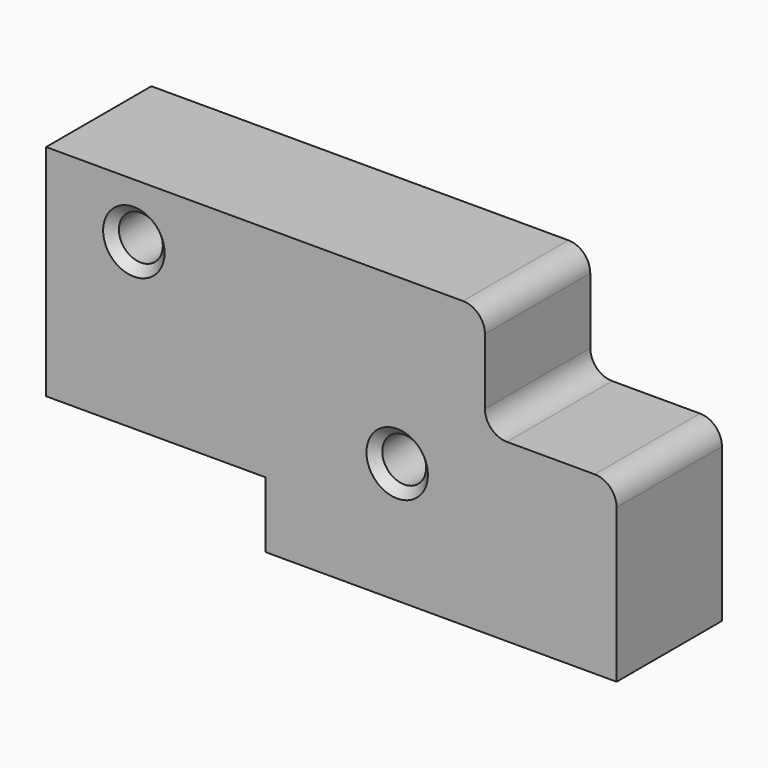
from build123d import *

# Parameters (mm, degrees)
F1_DEPTH = 15
F2_R     = 5
F3_R     = 5
F4_DEPTH = 30.001
F5_SIZE  = 2


with BuildPart() as f1:
    # F0 (on Front) → F1 (new body, symmetric)
    with BuildSketch(Plane.XZ):
        Polygon((50, 25), (-50, 25), (-50, -25), (0, -25), (0, -40), (80, -40), (80, 0), (50, 0), align=None)
    extrude(amount=F1_DEPTH, both=True)

    # F2
    f2_edges = [f1.edges().sort_by_distance(p)[0] for p in [
        (50, 0, 0),
        (50, 0, 25),
        (80, 0, 0),
    ]]
    fillet(f2_edges, radius=F2_R)

    # F3 (on face) → F4 (cut, through all)
    with BuildSketch(Plane.XZ.offset(15)):
        with Locations((-30, 12.5)):
            Circle(F3_R)
        with Locations((30, -12.5)):
            Circle(F3_R)
    extrude(amount=-F4_DEPTH, mode=Mode.SUBTRACT)

    # F5
    f5_edges = [f1.edges().sort_by_distance(p)[0] for p in [
        (-35, -15, 12.5),
        (25, -15, -12.5),
        (-35, 15, 12.5),
        (25, 15, -12.5),
    ]]
    chamfer(f5_edges, length=F5_SIZE)


solid = f1.part
